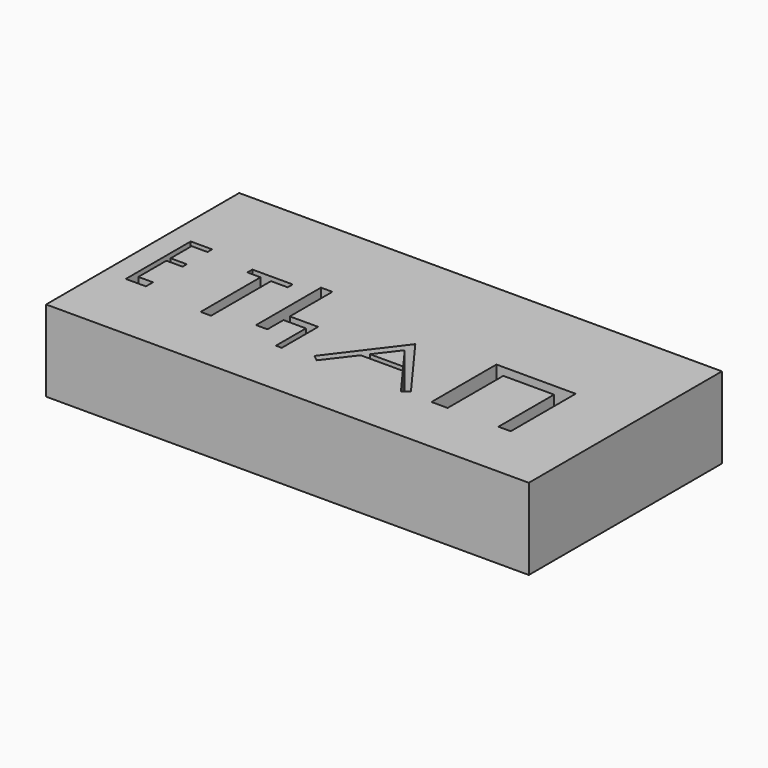
from build123d import *

# Parameters (mm, degrees)
F0_W     = 151.028797
F0_H     = 75.514413
F1_DEPTH = 25.4


with BuildPart() as f1:
    # F0 (on Top) → F1 (new body)
    with BuildSketch(Plane.XY):
        with Locations((0.829794, 37.757206)):
            Rectangle(F0_W, F0_H)
        Polygon((-67.922803, 22.709847), (-67.922803, 48.109847), (-66.187397, 48.109847), (-61.217834, 48.109847), (-61.217834, 46.300741), (-66.187397, 46.300741), (-66.187397, 38.091835), (-61.138953, 38.091835), (-61.138953, 36.43531), (-66.187397, 36.43531), (-66.187397, 25.470717), (-61.612244, 25.470717), (-61.612244, 22.709847), (-66.187397, 22.709847), align=None, mode=Mode.SUBTRACT)
        Polygon((-42.751573, 20.513045), (-42.751573, 43.952015), (-46.860394, 43.952015), (-46.860394, 45.913045), (-34.253778, 45.913045), (-34.253778, 43.952015), (-39.48319, 43.952015), (-39.48319, 20.513045), align=None, mode=Mode.SUBTRACT)
        Polygon((-27.809842, 23.514566), (-27.809842, 48.914566), (-24.243034, 48.914566), (-24.243034, 32.269461), (-17.217501, 32.269461), (-15.380056, 32.269461), (-15.380056, 18.033946), (-17.217501, 18.033946), (-17.217501, 29.783503), (-24.243034, 29.783503), (-24.243034, 23.514566), align=None, mode=Mode.SUBTRACT)
        Polygon((-4.607868, 18.229239), (-6.475495, 19.70368), (8.858709, 39.952685), (23.701419, 19.70368), (21.756015, 18.229239), (15.307362, 27.026744), (2.12542, 27.026744), align=None, mode=Mode.SUBTRACT)
        Polygon((36.130898, 18.522699), (31.071138, 18.522699), (31.071138, 43.922699), (36.130898, 43.922699), (52.018548, 43.922699), (55.863969, 43.922699), (55.863969, 18.522699), (52.018548, 18.522699), (52.018548, 40.279673), (36.130898, 40.279673), align=None, mode=Mode.SUBTRACT)
        Polygon((13.956968, 28.869005), (8.858709, 35.824248), (3.53542, 28.869005), align=None)
    extrude(amount=F1_DEPTH)


solid = f1.part
